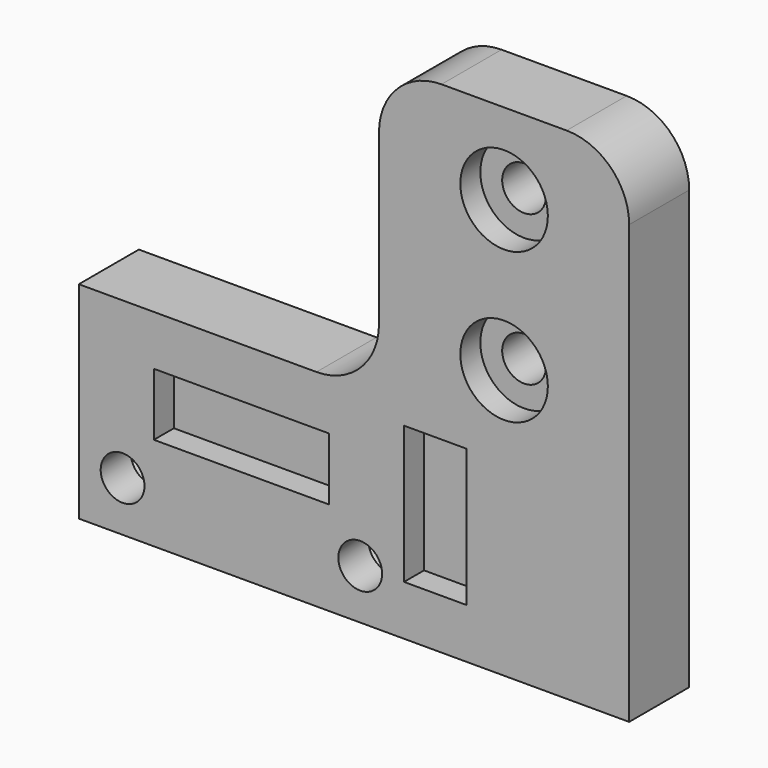
from build123d import *

# Parameters (mm, degrees)
F0_R     = 1.75
F0_W     = 14
F0_H     = 5
F0_W_2   = 5
F0_H_2   = 11
F0_R_2   = 3.5
F1_DEPTH = 6
F2_DEPTH = 2
F4_DEPTH = 3
F5_R     = 5


with BuildPart() as f1:
    # F0 (on Front) → F1 (new body)
    with BuildSketch(Plane.XZ):
        Polygon((-22, -20), (22, -20), (22, 20), (2, 20), (2, -3.5), (-22, -3.5), align=None)
        with Locations((-18.5, -16)):
            Circle(F0_R, mode=Mode.SUBTRACT)
        with Locations((-9, -10)):
            Rectangle(F0_W, F0_H, mode=Mode.SUBTRACT)
        with Locations((0.5, -16)):
            Circle(F0_R, mode=Mode.SUBTRACT)
        with Locations((6.5, -10.5)):
            Rectangle(F0_W_2, F0_H_2, mode=Mode.SUBTRACT)
        with Locations((12, 1.5)):
            Circle(F0_R_2, mode=Mode.SUBTRACT)
        with Locations((12, 13.5)):
            Circle(F0_R_2, mode=Mode.SUBTRACT)
        with Locations((-9, -10)):
            Rectangle(F0_W, F0_H)
        with Locations((6.5, -10.5)):
            Rectangle(F0_W_2, F0_H_2)
        with Locations((12, 1.5)):
            Circle(F0_R_2)
        with Locations((12, 1.5)):
            Circle(F0_R, mode=Mode.SUBTRACT)
        with Locations((12, 13.5)):
            Circle(F0_R_2)
        with Locations((12, 13.5)):
            Circle(F0_R, mode=Mode.SUBTRACT)
    extrude(amount=-F1_DEPTH)

    # F0 (on Front) → F2 (cut)
    with BuildSketch(Plane.XZ):
        with Locations((6.5, -10.5)):
            Rectangle(F0_W_2, F0_H_2)
        with Locations((-9, -10)):
            Rectangle(F0_W, F0_H)
        with Locations((12, 13.5)):
            Circle(F0_R_2)
        with Locations((12, 13.5)):
            Circle(F0_R, mode=Mode.SUBTRACT)
        with Locations((12, 1.5)):
            Circle(F0_R_2)
        with Locations((12, 1.5)):
            Circle(F0_R, mode=Mode.SUBTRACT)
    extrude(amount=-F2_DEPTH, mode=Mode.SUBTRACT)

    # F3 (on face) → F4 (cut)
    with BuildSketch(Plane(origin=(0, 6, 0), x_dir=(-1, 0, 0), z_dir=(0, 1, 0))):
        Polygon((-0.5, -12.535898), (-3.5, -14.267949), (-3.5, -17.732051), (-0.5, -19.464102), (2.5, -17.732051), (2.5, -14.267949), align=None)
        Polygon((15.5, -14.267949), (15.5, -17.732051), (18.5, -19.464102), (21.5, -17.732051), (21.5, -14.267949), (18.5, -12.535898), align=None)
    extrude(amount=-F4_DEPTH, mode=Mode.SUBTRACT)

    # F5
    f5_edges = [f1.edges().sort_by_distance(p)[0] for p in [
        (2, 3, -3.5),
        (2, 3, 20),
        (22, 3, 20),
    ]]
    fillet(f5_edges, radius=F5_R)


solid = f1.part
